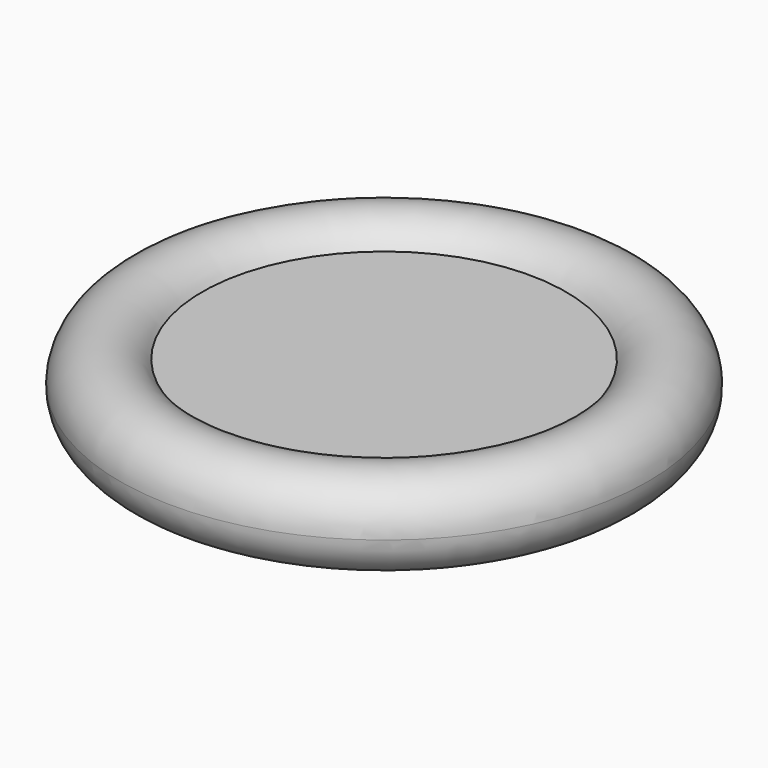
from build123d import *


with BuildPart() as f1:
    # F0 (on Front) → F1 (revolve)
    with BuildSketch(Plane.XZ):
        with BuildLine():
            Line((0, 10), (0, 5))
            Line((0, 5), (41.3397459622, 5))
            ThreePointArc((41.3397459622, 5), (40.3407417371, 7.411809549), (40, 10))
            Line((40, 10), (0, 10))
        make_face()
        with BuildLine():
            Line((0, 15), (0, 10))
            Line((0, 10), (40, 10))
            ThreePointArc((40, 10), (40.3407417371, 12.588190451), (41.3397459622, 15))
            Line((41.3397459622, 15), (0, 15))
        make_face()
        with BuildLine():
            Line((41.3397459622, 5), (50, 5))
            Line((50, 5), (50, 10))
            Line((50, 10), (40, 10))
            ThreePointArc((40, 10), (40.3407417371, 7.411809549), (41.3397459622, 5))
        make_face()
        with BuildLine():
            Line((40, 10), (50, 10))
            Line((50, 10), (50, 15))
            Line((50, 15), (41.3397459622, 15))
            ThreePointArc((41.3397459622, 15), (40.3407417371, 12.588190451), (40, 10))
        make_face()
        with BuildLine():
            Line((50, 5), (50, 0))
            ThreePointArc((50, 0), (57.0710678119, 2.9289321881), (60, 10))
            ThreePointArc((60, 10), (52.588190451, 19.6592582629), (41.3397459622, 15))
            Line((41.3397459622, 15), (50, 15))
            Line((50, 15), (50, 10))
            Line((50, 10), (50, 5))
        make_face()
        with BuildLine():
            ThreePointArc((41.3397459622, 5), (45, 1.3397459622), (50, 0))
            Line((50, 0), (50, 5))
            Line((50, 5), (41.3397459622, 5))
        make_face()
    revolve(axis=Axis((0, 0, 10), (0, 0, -1)))


solid = f1.part
